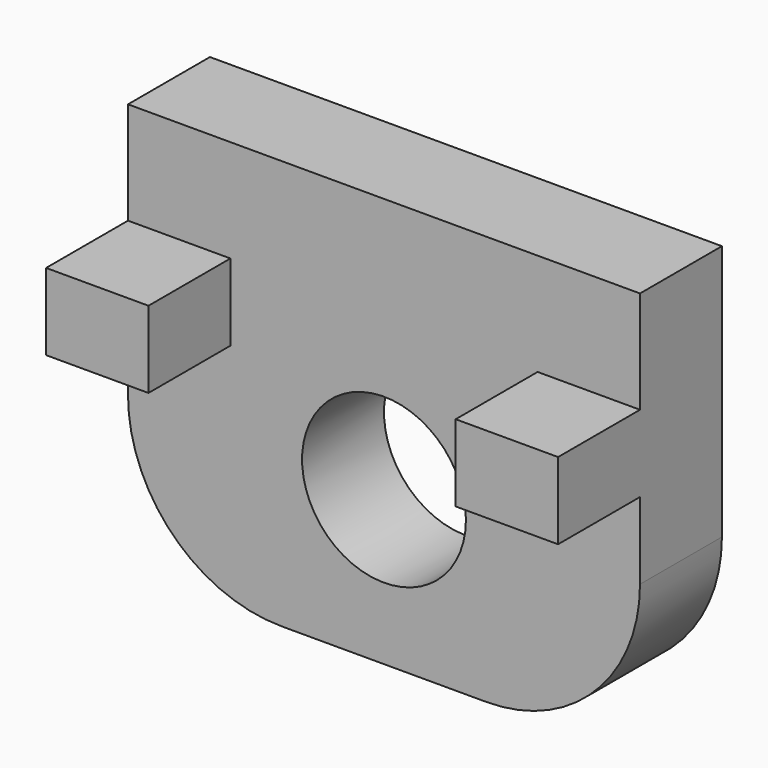
from build123d import *

# Parameters (mm, degrees)
BOX176_W          = 2
BOX176_H          = 2
BOX176_DEPTH      = 1.5
BOX175_W          = 2
BOX175_H          = 2
BOX175_DEPTH      = 1.5
CYLINDER069_R     = 1.6
CYLINDER069_DEPTH = 2
BOX174_W          = 10
BOX174_H          = 2
BOX174_DEPTH      = 8
FILLET038_R       = 3


with BuildPart() as cube165:
    # Box176 → Box176 (new body)
    with BuildSketch(Plane(origin=(79, 29, -20.5), x_dir=(1, 0, 0), z_dir=(0, 0, 1))):
        with Locations((1, 1)):
            Rectangle(BOX176_W, BOX176_H)
    extrude(amount=BOX176_DEPTH)


with BuildPart() as cube164:
    # Box175 → Box175 (new body)
    with BuildSketch(Plane(origin=(87, 29, -20.5), x_dir=(1, 0, 0), z_dir=(0, 0, 1))):
        with Locations((1, 1)):
            Rectangle(BOX175_W, BOX175_H)
    extrude(amount=BOX175_DEPTH)


with BuildPart() as cylinder150:
    # Cylinder069 → Cylinder069 (new body)
    with BuildSketch(Plane(origin=(84, 33, -22), x_dir=(1, 0, 0), z_dir=(0, -1, 0))):
        Circle(CYLINDER069_R)
    extrude(amount=CYLINDER069_DEPTH)


with BuildPart() as fusion055:
    # Box174 → Box174 (new body)
    with BuildSketch(Plane(origin=(79, 31, -25), x_dir=(1, 0, 0), z_dir=(0, 0, 1))):
        with Locations((5, 1)):
            Rectangle(BOX174_W, BOX174_H)
    extrude(amount=BOX174_DEPTH)

    # Cut093: cut Cylinder150
    add(cylinder150.part, mode=Mode.SUBTRACT)

    # Fillet038
    fillet038_edges = [fusion055.edges().sort_by_distance(p)[0] for p in [
        (79, 32, -25),
        (89, 32, -25),
    ]]
    fillet(fillet038_edges, radius=FILLET038_R)

    # Fusion055: union Cube165, Cube164
    add(cube165.part)
    add(cube164.part)


solid = fusion055.part
